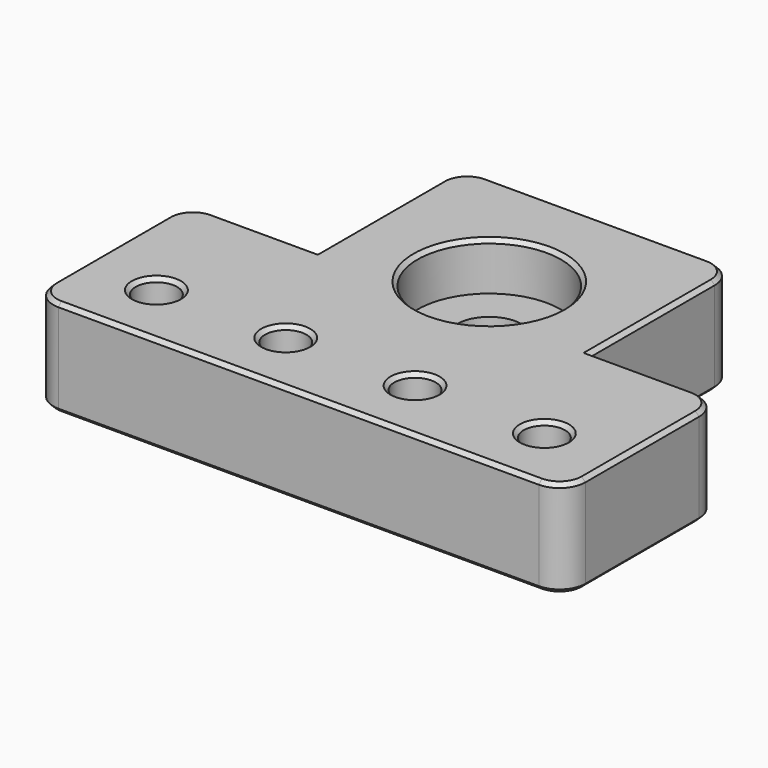
from build123d import *

# Parameters (mm, degrees)
SKETCH_R        = 5
SKETCH_R_2      = 3.2
PAD_DEPTH       = 15
SKETCH002_R     = 6.1
POCKET001_DEPTH = 4
SKETCH003_R     = 11.1
POCKET_DEPTH    = 7.4
FILLET_R        = 4
CHAMFER_SIZE    = 0.6
CHAMFER001_SIZE = 0.6
CHAMFER002_SIZE = 0.6


with BuildPart() as part:
    # Sketch → Pad (new body)
    with BuildSketch(Plane.XY):
        Polygon((20, 30), (20, 58), (62.3, 58), (62.3, 30), (82.3, 30), (82.3, 0), (0, 0), (0, 30), align=None)
        with Locations((41.15, 36.85)):
            Circle(SKETCH_R, mode=Mode.SUBTRACT)
        with Locations((11.15, 10)):
            Circle(SKETCH_R_2, mode=Mode.SUBTRACT)
        with Locations((31.15, 10)):
            Circle(SKETCH_R_2, mode=Mode.SUBTRACT)
        with Locations((51.15, 10)):
            Circle(SKETCH_R_2, mode=Mode.SUBTRACT)
        with Locations((71.15, 10)):
            Circle(SKETCH_R_2, mode=Mode.SUBTRACT)
    extrude(amount=PAD_DEPTH)

    # Sketch002 → Pocket001 (cut)
    with BuildSketch(Plane(origin=(0, 0, 0), x_dir=(1, 0, 0), z_dir=(0, 0, -1))):
        with Locations((11.15, -10)):
            Circle(SKETCH002_R)
        with Locations((31.15, -10)):
            Circle(SKETCH002_R)
        with Locations((51.15, -10)):
            Circle(SKETCH002_R)
        with Locations((71.15, -10)):
            Circle(SKETCH002_R)
    extrude(amount=-POCKET001_DEPTH, mode=Mode.SUBTRACT)

    # Sketch003 (on Face5 of Pocket001) → Pocket (cut)
    with BuildSketch(Plane.XY.offset(15)):
        with Locations((41.15, 36.85)):
            Circle(SKETCH003_R)
    extrude(amount=-POCKET_DEPTH, mode=Mode.SUBTRACT)

    # Fillet
    fillet_edges = [part.edges().sort_by_distance(p)[0] for p in [
        (0, 30, 7.5),
        (20, 58, 7.5),
        (62.3, 58, 7.5),
        (82.3, 30, 7.5),
        (82.3, 0, 7.5),
        (0, 0, 7.5),
    ]]
    fillet(fillet_edges, radius=FILLET_R)

    # Chamfer
    chamfer_edges = [part.edges().sort_by_distance(p)[0] for p in [
        (20, 42, 15),
        (21.171573, 56.828427, 15),
        (12, 30, 15),
        (41.15, 58, 15),
        (1.171573, 28.828427, 15),
        (61.128427, 56.828427, 15),
        (0, 15, 15),
        (62.3, 42, 15),
        (1.171573, 1.171573, 15),
        (70.3, 30, 15),
        (41.15, 0, 15),
        (81.128427, 28.828427, 15),
        (81.128427, 1.171573, 15),
        (82.3, 15, 15),
        (47.95, 10, 15),
        (27.95, 10, 15),
        (30.05, 36.85, 15),
        (7.95, 10, 15),
        (67.95, 10, 15),
    ]]
    chamfer(chamfer_edges, length=CHAMFER_SIZE)

    # Chamfer001
    chamfer001_edges = [part.edges().sort_by_distance(p)[0] for p in [
        (20, 42, 0),
        (21.171573, 56.828427, 0),
        (12, 30, 0),
        (41.15, 58, 0),
        (1.171573, 28.828427, 0),
        (61.128427, 56.828427, 0),
        (0, 15, 0),
        (62.3, 42, 0),
        (1.171573, 1.171573, 0),
        (70.3, 30, 0),
        (41.15, 0, 0),
        (81.128427, 28.828427, 0),
        (81.128427, 1.171573, 0),
        (82.3, 15, 0),
        (45.05, 10, 0),
        (25.05, 10, 0),
        (65.05, 10, 0),
        (5.05, 10, 0),
        (36.15, 36.85, 0),
    ]]
    chamfer(chamfer001_edges, length=CHAMFER001_SIZE)

    # Chamfer002
    chamfer002_edges = [part.edges().sort_by_distance(p)[0] for p in [
        (67.95, 10, 4),
        (47.95, 10, 4),
        (27.95, 10, 4),
        (7.95, 10, 4),
    ]]
    chamfer(chamfer002_edges, length=CHAMFER002_SIZE)


solid = part.part
